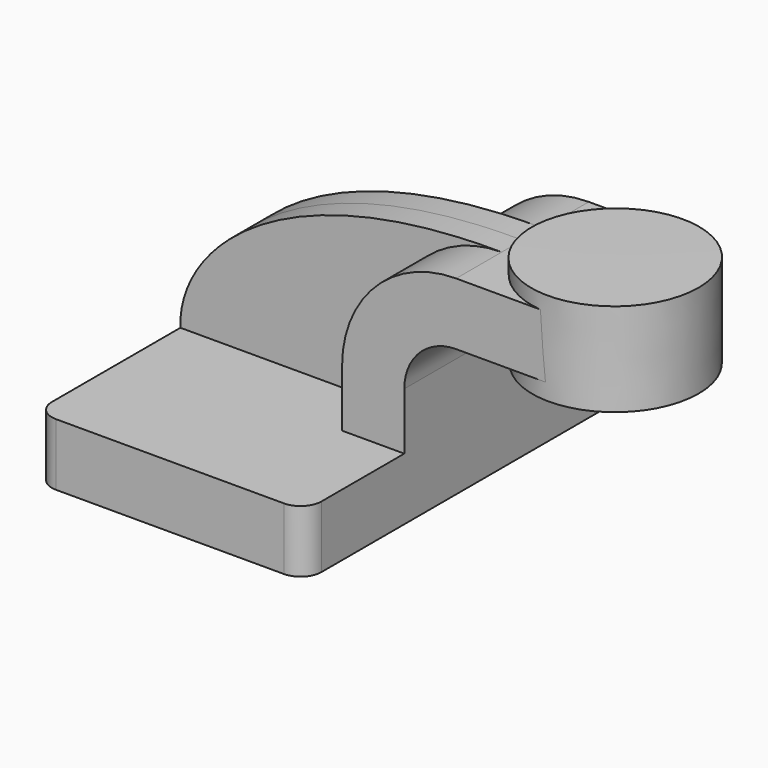
from build123d import *

# Parameters (mm, degrees)
F1_DEPTH = 63.5
F0_W     = 25.2398125172
F0_H     = 19.05
F2_DEPTH = 25.4
F3_DEPTH = 7.9375
F5_R     = 6.35


with BuildPart() as f1:
    # F0 (on Front) → F1 (new body, symmetric)
    with BuildSketch(Plane.XZ):
        Polygon((-41.275, -9.525), (41.275, -9.525), (41.275, 9.525), (22.225, 9.525), (-41.275, 9.525), align=None)
    extrude(amount=F1_DEPTH, both=True)

    # F0 (on Front) → F2 (join, symmetric)
    with BuildSketch(Plane.XZ):
        with Locations((72.9449062586, 52.4002)):
            Rectangle(F0_W, F0_H)
        with BuildLine():
            Line((22.225, 9.525), (41.275, 9.525))
            Line((41.275, 9.525), (41.275, 27.0002))
            ThreePointArc((41.275, 27.0002), (45.9246798487, 38.2255201513), (57.15, 42.8752))
            Line((57.15, 42.8752), (60.325, 42.8752))
            Line((60.325, 42.8752), (60.325, 61.9252))
            Line((60.325, 61.9252), (57.15, 61.9252))
            ThreePointArc((57.15, 61.9252), (32.4542956671, 51.6959043329), (22.225, 27.0002))
            Line((22.225, 27.0002), (22.225, 9.525))
        make_face()
    extrude(amount=F2_DEPTH, both=True)

    # F0 (on Front) → F3 (join, symmetric)
    with BuildSketch(Plane.XZ):
        with BuildLine():
            add(Edge.make_bspline(
                [(-41.275, 9.525), (-42.1492531896, 31.8932123482), (-11.5411048755, 62.5013560057), (57.15, 61.9252)],
                knots=[0, 0, 0, 0, 111.5045361635, 111.5045361635, 111.5045361635, 111.5045361635], degree=3))
            Line((-41.275, 9.525), (22.225, 9.525))
            Line((22.225, 9.525), (22.225, 27.0002))
            ThreePointArc((22.225, 27.0002), (32.4542956671, 51.6959043329), (57.15, 61.9252))
        make_face()
    extrude(amount=F3_DEPTH, both=True)

    # F0 (on Front) → F4 (revolve)
    with BuildSketch(Plane.XZ):
        Polygon((111.125, 66.675), (85.5648125172, 66.675), (85.725, 38.1), (111.125, 38.1), align=None)
    revolve(axis=Axis((85.6449062586, 0, 52.3875), (-0.0056057731, 0, 0.9999842875)))

    # F5
    f5_edges = [f1.edges().sort_by_distance(p)[0] for p in [
        (41.275, 63.5, 0),
        (-41.275, 63.5, 0),
        (-41.275, -63.5, 0),
        (41.275, -63.5, 0),
    ]]
    fillet(f5_edges, radius=F5_R)


solid = f1.part
